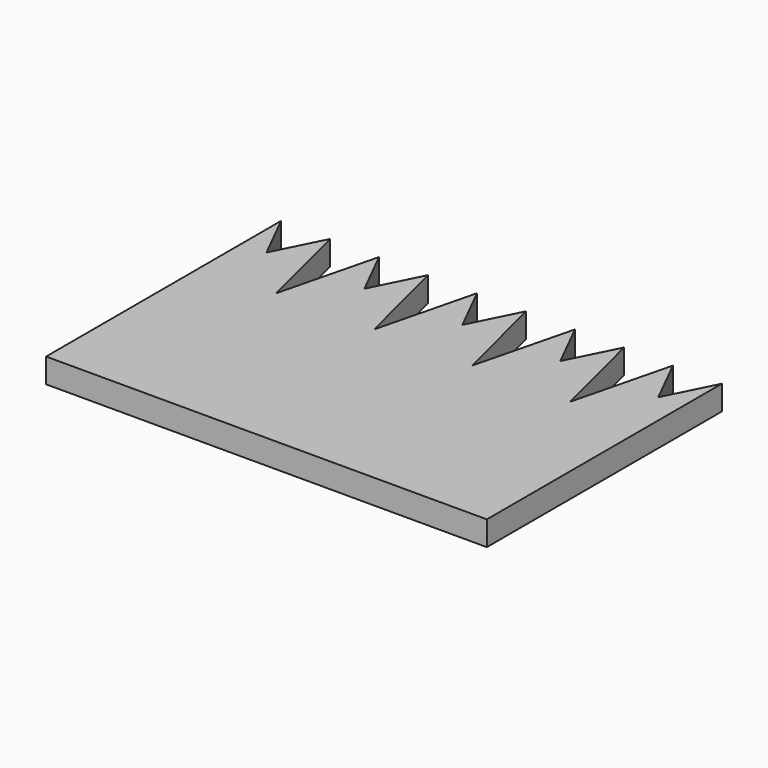
from build123d import *

# Parameters (mm, degrees)
F1_DEPTH = 25.4


with BuildPart() as f1:
    # F0 (on Top) → F1 (new body)
    with BuildSketch(Plane.XY):
        Polygon((-261.456966, 195.094159), (-261.456966, -109.705841), (195.743034, -109.705841), (195.743034, 195.094159), (170.343034, 144.294159), (144.943034, 195.094159), (119.543034, 93.494159), (94.143034, 195.094159), (68.743034, 144.294159), (43.343034, 195.094159), (17.943034, 93.494159), (-7.456966, 195.094159), (-32.856966, 144.294159), (-58.256966, 195.094159), (-83.656966, 93.494159), (-109.056966, 195.094159), (-134.456966, 144.294159), (-159.856966, 195.094159), (-185.256966, 93.494159), (-210.656966, 195.094159), (-236.056966, 144.294159), align=None)
    extrude(amount=F1_DEPTH)


solid = f1.part
